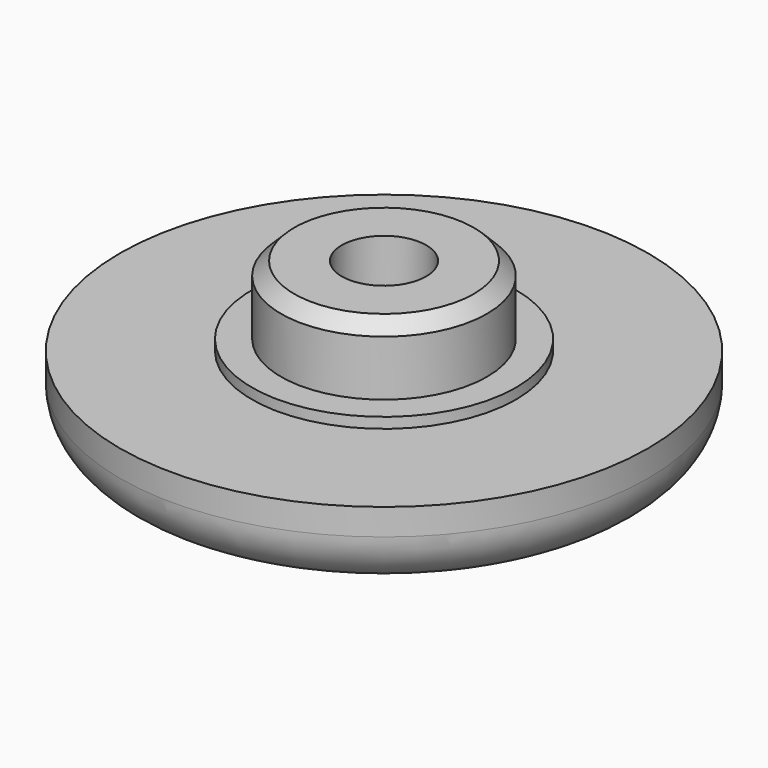
from build123d import *

# Parameters (mm, degrees)
F2_SIZE  = 0.5
F3_R     = 5
F3_R_2   = 3.9
F4_DEPTH = 0.4
F5_R     = 2
F6_R     = 1.6
F7_DEPTH = 25
F8_R     = 1.6
F9_DEPTH = 2.5


with BuildPart() as f1:
    # F0 (on Front) → F1 (revolve)
    with BuildSketch(Plane.XZ):
        Polygon((3.9, 6), (0, 6), (0, 0), (10, 0), (10, 3), (3.9, 3), align=None)
    revolve(axis=Axis((0, 0, 3), (0, 0, -1)))

    # F2
    f2_edges = [f1.edges().sort_by_distance(p)[0] for p in [
        (-3.9, 0, 6),
    ]]
    chamfer(f2_edges, length=F2_SIZE)

    # F3 (on face) → F4 (join)
    with BuildSketch(Plane.XY.offset(3)):
        Circle(F3_R)
        Circle(F3_R_2, mode=Mode.SUBTRACT)
    extrude(amount=F4_DEPTH)

    # F5
    f5_edges = [f1.edges().sort_by_distance(p)[0] for p in [
        (-10, 0, 0),
    ]]
    fillet(f5_edges, radius=F5_R)

    # F6 (on face) → F7 (cut)
    with BuildSketch(Plane.XY.offset(6)):
        Circle(F6_R)
    extrude(amount=-F7_DEPTH, mode=Mode.SUBTRACT)

    # F8 (on face) → F9 (cut)
    with BuildSketch(Plane(origin=(0, 0, 0), x_dir=(1, 0, 0), z_dir=(0, 0, -1))):
        Polygon((3, -1.732051), (3, 1.732051), (0, 3.464102), (-3, 1.732051), (-3, -1.732051), (0, -3.464102), align=None)
        Circle(F8_R, mode=Mode.SUBTRACT)
    extrude(amount=-F9_DEPTH, mode=Mode.SUBTRACT)


solid = f1.part
